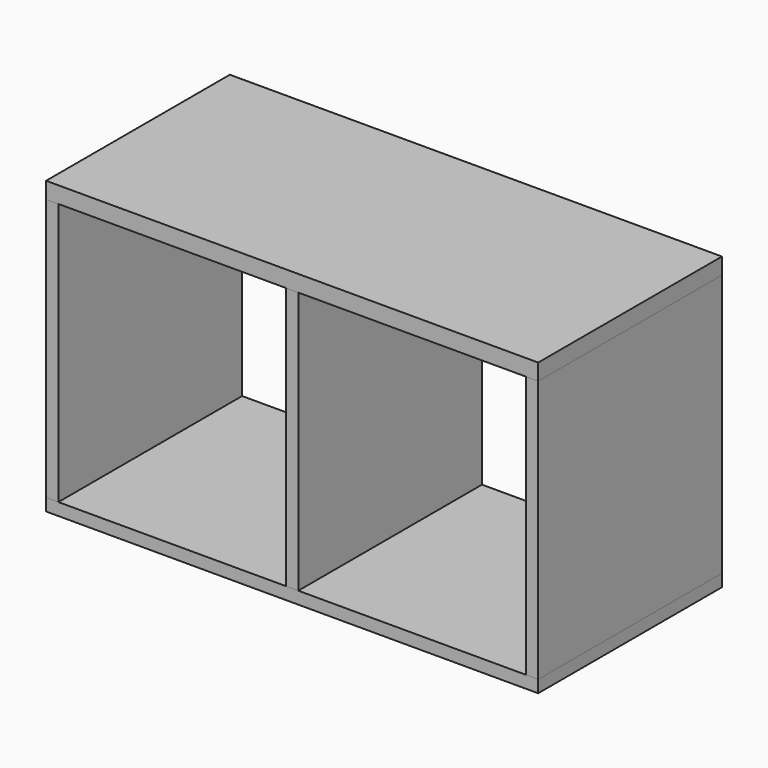
from build123d import *

# Parameters (mm, degrees)
F0_W     = 762
F0_H     = 355.6
F1_DEPTH = 9.525
F2_W     = 355.6
F2_H     = 406.4
F3_DEPTH = 19.05
F5_DEPTH = 9.525
F6_W     = 355.6
F6_H     = 406.4
F7_DEPTH = 19.05
F8_W     = 762
F8_H     = 355.6
F9_DEPTH = 25.4


with BuildPart() as f1:
    # F0 (on Top) → F1 (new body, symmetric)
    with BuildSketch(Plane.XY):
        Rectangle(F0_W, F0_H)
    extrude(amount=F1_DEPTH, both=True)


with BuildPart() as f3:
    # F2 (on face) → F3 (new body)
    with BuildSketch(Plane.YZ.offset(381)):
        with Locations((0, 212.725)):
            Rectangle(F2_W, F2_H)
    extrude(amount=-F3_DEPTH)


with BuildPart() as f5:
    # F4 (on Right) → F5 (new body, symmetric)
    with BuildSketch(Plane.YZ):
        Polygon((-177.8, 415.925), (-177.8, 9.525), (177.8, 9.525), (177.8, 415.925), (88.9, 415.925), align=None)
    extrude(amount=F5_DEPTH, both=True)


with BuildPart() as f7:
    # F6 (on face) → F7 (new body)
    with BuildSketch(Plane(origin=(-381, 0, 0), x_dir=(0, -1, 0), z_dir=(-1, 0, 0))):
        with Locations((0, 212.725)):
            Rectangle(F6_W, F6_H)
    extrude(amount=-F7_DEPTH)


with BuildPart() as f9:
    # F8 (on face) → F9 (new body)
    with BuildSketch(Plane.XY.offset(415.925)):
        Rectangle(F8_W, F8_H)
    extrude(amount=F9_DEPTH)


solid = Compound([f1.part, f3.part, f5.part, f7.part, f9.part])
